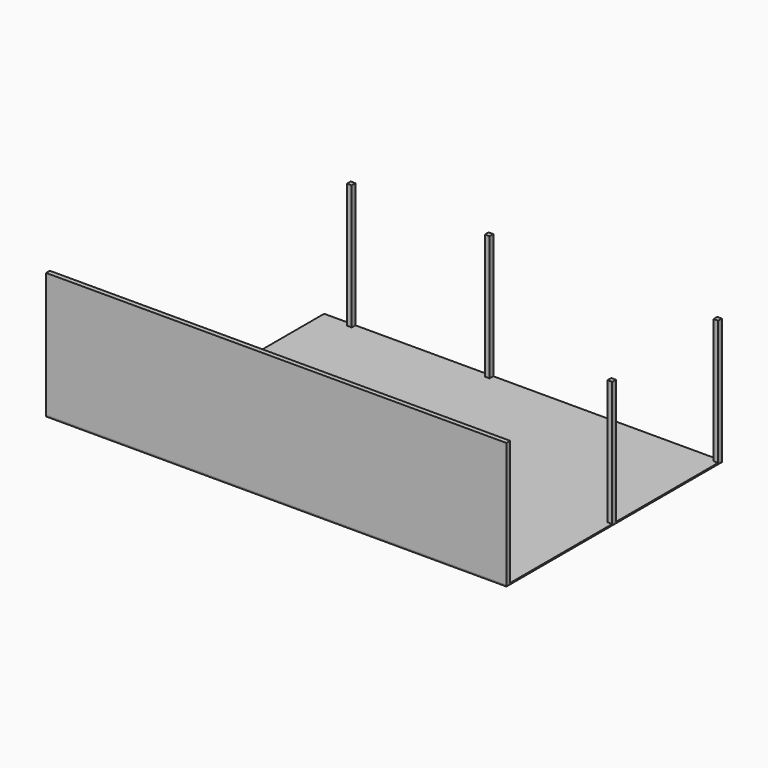
from build123d import *

# Parameters (mm, degrees)
F1_DEPTH = 1200
F2_DEPTH = 2400
F0_W     = 90
F0_H     = 90
F3_DEPTH = 2400
F4_DEPTH = 25


with BuildPart() as f1:
    # F0 (on Top) → F1 (new body)
    with BuildSketch(Plane.XY):
        Polygon((-8831, 0), (-8741, 0), (-8741, 998), (-7631, 998), (-7631, 1088), (-8831, 1088), (-8831, 998), align=None)
    extrude(amount=F1_DEPTH)

    # F0 (on Top) → F2 (join)
    with BuildSketch(Plane.XY):
        Polygon((0, -90), (0, 0), (-8741, 0), (-8831, 0), (-8831, -90), align=None)
    extrude(amount=F2_DEPTH)


with BuildPart() as f3:
    # F0 (on Top) → F3 (new body)
    with BuildSketch(Plane.XY):
        with Locations((-45, 2492)):
            Rectangle(F0_W, F0_H)
        with Locations((-45, 5033)):
            Rectangle(F0_W, F0_H)
        with Locations((-4431, 5033)):
            Rectangle(F0_W, F0_H)
        with Locations((-7076, 5033)):
            Rectangle(F0_W, F0_H)
    extrude(amount=F3_DEPTH)


with BuildPart() as f4:
    # F0 (on Top) → F4 (new body)
    with BuildSketch(Plane.XY):
        Polygon((0, 0), (0, 2447), (-90, 2447), (-90, 2537), (0, 2537), (0, 4988), (-90, 4988), (-90, 5078), (-4386, 5078), (-4386, 4988), (-4476, 4988), (-4476, 5078), (-7031, 5078), (-7031, 4988), (-7121, 4988), (-7121, 5078), (-7631, 5078), (-7631, 1088), (-7631, 998), (-8741, 998), (-8741, 0), align=None)
        Polygon((0, -90), (0, 0), (-8741, 0), (-8831, 0), (-8831, -90), align=None)
        Polygon((-8831, 0), (-8741, 0), (-8741, 998), (-7631, 998), (-7631, 1088), (-8831, 1088), (-8831, 998), align=None)
        with Locations((-7076, 5033)):
            Rectangle(F0_W, F0_H)
        with Locations((-4431, 5033)):
            Rectangle(F0_W, F0_H)
        with Locations((-45, 5033)):
            Rectangle(F0_W, F0_H)
        with Locations((-45, 2492)):
            Rectangle(F0_W, F0_H)
    extrude(amount=-F4_DEPTH)


solid = Compound([f1.part, f3.part, f4.part])
